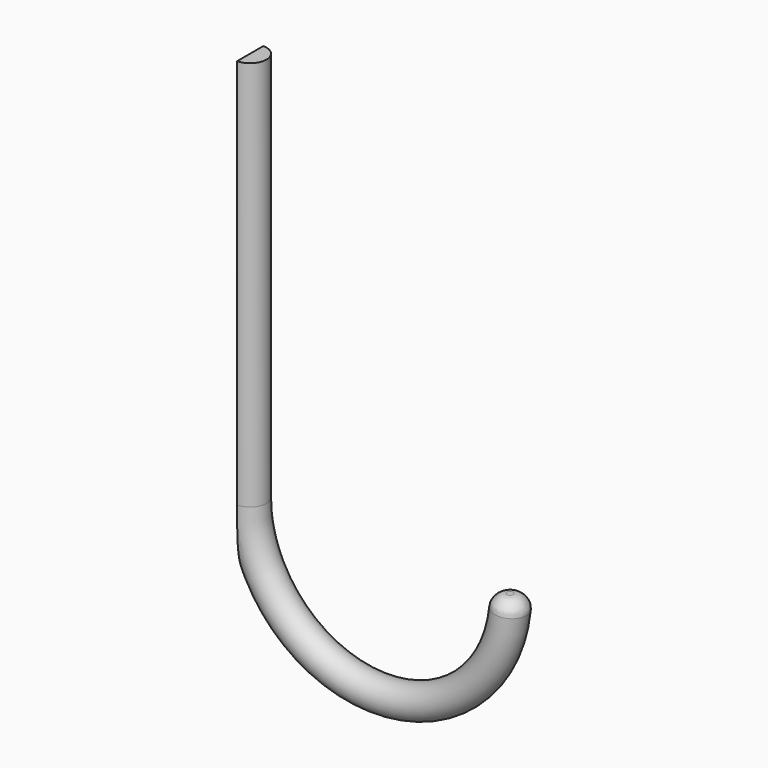
from build123d import *

# Parameters (mm, degrees)
F2_R     = 3.175
F4_R     = 2.54
F5_W     = 34.6189280972
F5_H     = 141.0606596619
F6_DEPTH = 25.4


with BuildPart() as f3:
    # F3: sweep along a path in F0
    with BuildLine(Plane.XZ) as f3_path:
        ThreePointArc((50.8, -76.2), (25.4, -101.6), (0, -76.2))
        Line((0, -76.2), (0, 0))
    # F2 (on plane+point) → F3 (sweep)
    with BuildSketch(Plane.XY.offset(-76.2)):
        with Locations((50.8, 0)):
            Circle(F2_R)
    sweep(path=f3_path.line)

    # F4
    f4_edges = [f3.edges().sort_by_distance(p)[0] for p in [
        (47.625, 0, -76.2),
    ]]
    fillet(f4_edges, radius=F4_R)

    # F5 (on Right) → F6 (cut)
    with BuildSketch(Plane.YZ):
        with Locations((-2.6043397374, -54.7910733148)):
            Rectangle(F5_W, F5_H)
    extrude(amount=-F6_DEPTH, mode=Mode.SUBTRACT)


solid = f3.part
